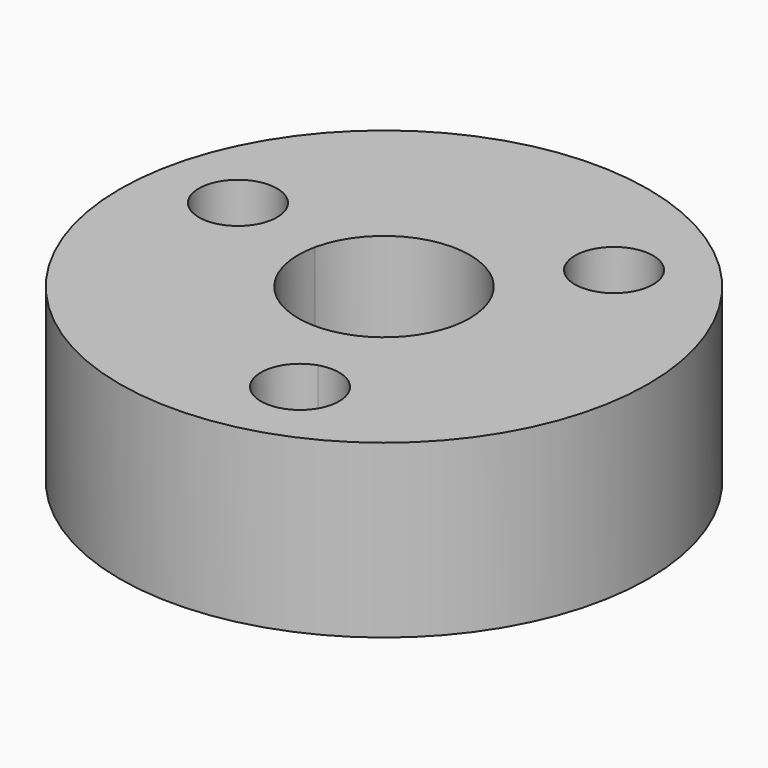
from build123d import *

# Parameters (mm, degrees)
F0_R     = 9.779
F1_DEPTH = 6.35


with BuildPart() as f1:
    # F0 (on Top) → F1 (new body)
    with BuildSketch(Plane.XY):
        Circle(F0_R)
        with BuildLine():
            ThreePointArc((3.473407, -6.418978), (1.16965, -7.586652), (1.58991, -5.038292))
            ThreePointArc((1.58991, -5.038292), (2.881563, -5.251304), (3.473407, -6.418978))
        make_face(mode=Mode.SUBTRACT)
        with BuildLine():
            ThreePointArc((-5.124001, 1.455262), (-5.132588, 1.297819), (-5.158244, 1.142243))
            ThreePointArc((-5.158244, 1.142243), (-8.011015, 1.612705), (-5.124001, 1.455262))
        make_face(mode=Mode.SUBTRACT)
        with BuildLine():
            ThreePointArc((2.144431, 2.341375), (2.905959, 1.279073), (3.175, 0))
            ThreePointArc((3.175, 0), (2.560689, -1.877098), (0.955475, -3.02782))
            ThreePointArc((0.955475, -3.02782), (-2.144431, -2.341375), (-3.099906, 0.686444))
            ThreePointArc((-3.099906, 0.686444), (-0.955475, 3.02782), (2.144431, 2.341375))
        make_face(mode=Mode.SUBTRACT)
        with BuildLine():
            ThreePointArc((5.993995, 4.963716), (5.129452, 3.638599), (3.568334, 3.896049))
            ThreePointArc((3.568334, 3.896049), (3.962937, 6.288833), (5.993995, 4.963716))
        make_face(mode=Mode.SUBTRACT)
        Circle(F0_R)
        with BuildLine():
            ThreePointArc((3.473407, -6.418978), (1.16965, -7.586652), (1.58991, -5.038292))
            ThreePointArc((1.58991, -5.038292), (2.881563, -5.251304), (3.473407, -6.418978))
        make_face(mode=Mode.SUBTRACT)
        with BuildLine():
            ThreePointArc((-5.124001, 1.455262), (-5.132588, 1.297819), (-5.158244, 1.142243))
            ThreePointArc((-5.158244, 1.142243), (-8.011015, 1.612705), (-5.124001, 1.455262))
        make_face(mode=Mode.SUBTRACT)
        with BuildLine():
            ThreePointArc((2.144431, 2.341375), (2.905959, 1.279073), (3.175, 0))
            ThreePointArc((3.175, 0), (2.560689, -1.877098), (0.955475, -3.02782))
            ThreePointArc((0.955475, -3.02782), (-2.144431, -2.341375), (-3.099906, 0.686444))
            ThreePointArc((-3.099906, 0.686444), (-0.955475, 3.02782), (2.144431, 2.341375))
        make_face(mode=Mode.SUBTRACT)
        with BuildLine():
            ThreePointArc((5.993995, 4.963716), (5.129452, 3.638599), (3.568334, 3.896049))
            ThreePointArc((3.568334, 3.896049), (3.962937, 6.288833), (5.993995, 4.963716))
        make_face(mode=Mode.SUBTRACT)
        Circle(F0_R)
        with BuildLine():
            ThreePointArc((3.473407, -6.418978), (1.16965, -7.586652), (1.58991, -5.038292))
            ThreePointArc((1.58991, -5.038292), (2.881563, -5.251304), (3.473407, -6.418978))
        make_face(mode=Mode.SUBTRACT)
        with BuildLine():
            ThreePointArc((-5.124001, 1.455262), (-5.132588, 1.297819), (-5.158244, 1.142243))
            ThreePointArc((-5.158244, 1.142243), (-8.011015, 1.612705), (-5.124001, 1.455262))
        make_face(mode=Mode.SUBTRACT)
        with BuildLine():
            ThreePointArc((2.144431, 2.341375), (2.905959, 1.279073), (3.175, 0))
            ThreePointArc((3.175, 0), (2.560689, -1.877098), (0.955475, -3.02782))
            ThreePointArc((0.955475, -3.02782), (-2.144431, -2.341375), (-3.099906, 0.686444))
            ThreePointArc((-3.099906, 0.686444), (-0.955475, 3.02782), (2.144431, 2.341375))
        make_face(mode=Mode.SUBTRACT)
        with BuildLine():
            ThreePointArc((5.993995, 4.963716), (5.129452, 3.638599), (3.568334, 3.896049))
            ThreePointArc((3.568334, 3.896049), (3.962937, 6.288833), (5.993995, 4.963716))
        make_face(mode=Mode.SUBTRACT)
        Circle(F0_R)
        with BuildLine():
            ThreePointArc((3.473407, -6.418978), (1.16965, -7.586652), (1.58991, -5.038292))
            ThreePointArc((1.58991, -5.038292), (2.881563, -5.251304), (3.473407, -6.418978))
        make_face(mode=Mode.SUBTRACT)
        with BuildLine():
            ThreePointArc((-5.124001, 1.455262), (-5.132588, 1.297819), (-5.158244, 1.142243))
            ThreePointArc((-5.158244, 1.142243), (-8.011015, 1.612705), (-5.124001, 1.455262))
        make_face(mode=Mode.SUBTRACT)
        with BuildLine():
            ThreePointArc((2.144431, 2.341375), (2.905959, 1.279073), (3.175, 0))
            ThreePointArc((3.175, 0), (2.560689, -1.877098), (0.955475, -3.02782))
            ThreePointArc((0.955475, -3.02782), (-2.144431, -2.341375), (-3.099906, 0.686444))
            ThreePointArc((-3.099906, 0.686444), (-0.955475, 3.02782), (2.144431, 2.341375))
        make_face(mode=Mode.SUBTRACT)
        with BuildLine():
            ThreePointArc((5.993995, 4.963716), (5.129452, 3.638599), (3.568334, 3.896049))
            ThreePointArc((3.568334, 3.896049), (3.962937, 6.288833), (5.993995, 4.963716))
        make_face(mode=Mode.SUBTRACT)
    extrude(amount=F1_DEPTH)


solid = f1.part
